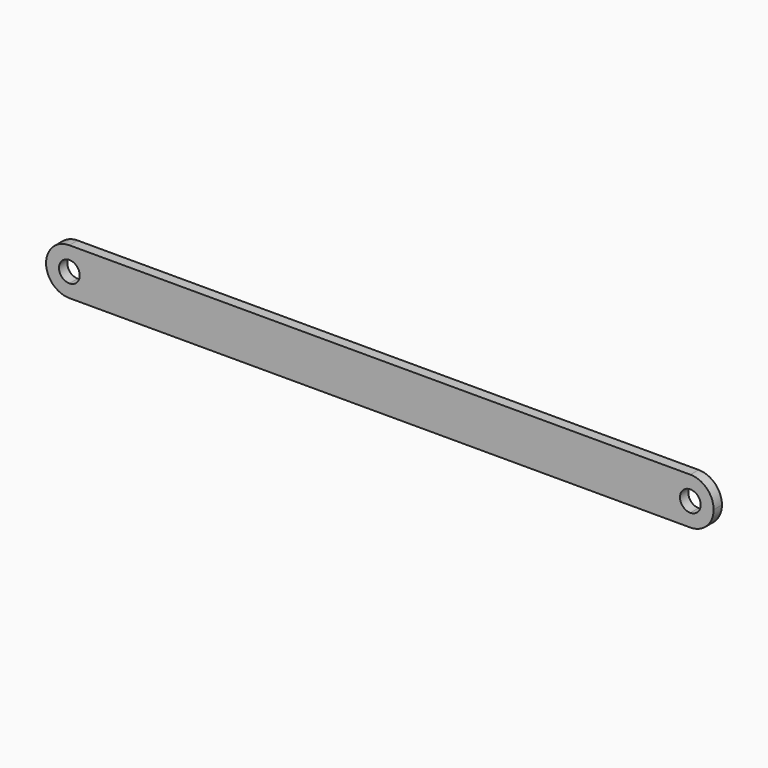
from build123d import *

# Parameters (mm, degrees)
F1_DEPTH = 12.7


with BuildPart() as f1:
    # F0 (on Front) → F1 (new body)
    with BuildSketch(Plane.XZ):
        with BuildLine():
            ThreePointArc((381, 28.575), (352.425, 0), (381, -28.575))
            Line((381, -28.575), (381, -12.7))
            ThreePointArc((381, -12.7), (368.3, 0), (381, 12.7))
            Line((381, 12.7), (381, 28.575))
        make_face()
        with BuildLine():
            Line((-381, -28.575), (381, -28.575))
            ThreePointArc((381, -28.575), (352.425, 0), (381, 28.575))
            Line((381, 28.575), (-381, 28.575))
            ThreePointArc((-381, 28.575), (-360.7944237276, 20.2055762724), (-352.425, 0))
            ThreePointArc((-352.425, 0), (-360.7944237276, -20.2055762724), (-381, -28.575))
        make_face()
        with BuildLine():
            Line((381, -12.7), (381, -28.575))
            ThreePointArc((381, -28.575), (401.2055762724, -20.2055762724), (409.575, 0))
            ThreePointArc((409.575, 0), (401.2055762724, 20.2055762724), (381, 28.575))
            Line((381, 28.575), (381, 12.7))
            ThreePointArc((381, 12.7), (389.9802561211, 8.9802561211), (393.7, 0))
            ThreePointArc((393.7, 0), (389.9802561211, -8.9802561211), (381, -12.7))
        make_face()
        with BuildLine():
            ThreePointArc((-381, 28.575), (-409.575, 0), (-381, -28.575))
            Line((-381, -28.575), (-381, -12.7))
            ThreePointArc((-381, -12.7), (-393.7, 0), (-381, 12.7))
            Line((-381, 12.7), (-381, 28.575))
        make_face()
        with BuildLine():
            Line((-381, -12.7), (-381, -28.575))
            ThreePointArc((-381, -28.575), (-360.7944237276, -20.2055762724), (-352.425, 0))
            ThreePointArc((-352.425, 0), (-360.7944237276, 20.2055762724), (-381, 28.575))
            Line((-381, 28.575), (-381, 12.7))
            ThreePointArc((-381, 12.7), (-372.0197438789, 8.9802561211), (-368.3, 0))
            ThreePointArc((-368.3, 0), (-372.0197438789, -8.9802561211), (-381, -12.7))
        make_face()
    extrude(amount=F1_DEPTH)


solid = f1.part
